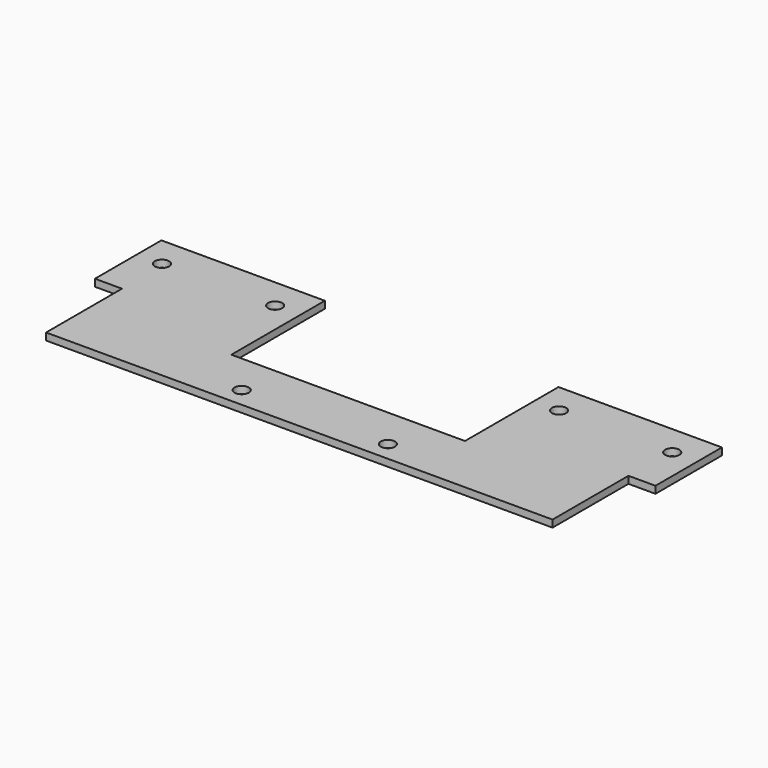
from build123d import *

# Parameters (mm, degrees)
F1_DEPTH = 1.5
F2_R     = 1.5
F3_DEPTH = 12.3


with BuildPart() as f1:
    # F0 (on Top) → F1 (new body)
    with BuildSketch(Plane.XY):
        Polygon((-53.415, 8.123284), (0, 8.123284), (53.415, 8.123284), (53.415, 28.133284), (59.115, 28.133284), (59.115, 45.653284), (24.64, 45.653284), (24.64, 21.003284), (0, 21.003284), (-24.64, 21.003284), (-24.64, 45.653284), (-59.115, 45.653284), (-59.115, 28.133284), (-53.415, 28.133284), align=None)
    extrude(amount=F1_DEPTH)

    # F2 (on face) → F3 (cut)
    with BuildSketch(Plane.XY.offset(1.5)):
        with Locations((-53.815, 39.178284)):
            Circle(F2_R)
        with Locations((-29.94, 39.178284)):
            Circle(F2_R)
        with Locations((-15.415, 12.203284)):
            Circle(F2_R)
        with Locations((15.415, 12.203284)):
            Circle(F2_R)
        with Locations((29.94, 39.178284)):
            Circle(F2_R)
        with Locations((53.815, 39.178284)):
            Circle(F2_R)
    extrude(amount=-F3_DEPTH, mode=Mode.SUBTRACT)


solid = f1.part
